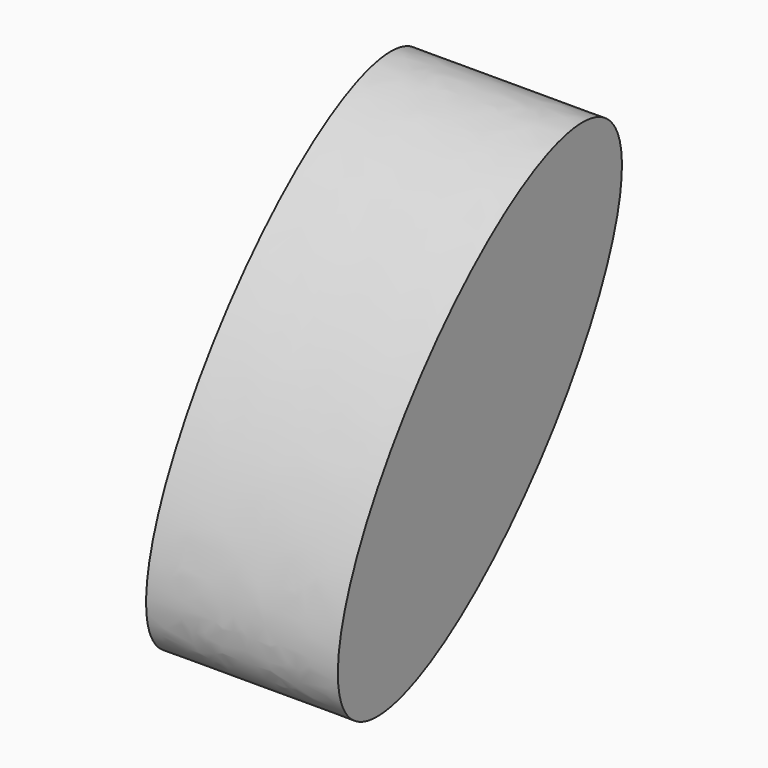
from build123d import *

# Parameters (mm, degrees)
F1_DEPTH = 109.261556


with BuildPart() as f1:
    # F0 (on Right) → F1 (new body)
    with BuildSketch(Plane.YZ):
        with BuildLine():
            add(Edge.make_bspline(
                [(-0.762105, 113.835827), (-78.451377, 175.704918), (-175.589206, -25.983368), (-272.727035, -227.671653), (-97.899934, -87.852459), (76.927167, 51.966735), (-0.762105, 113.835827)],
                knots=[0, 0, 0, 2.094395, 2.094395, 4.18879, 4.18879, 6.283185, 6.283185, 6.283185], degree=2, weights=[1, 0.5, 1, 0.5, 1, 0.5, 1]))
        make_face()
    extrude(amount=F1_DEPTH)


solid = f1.part
